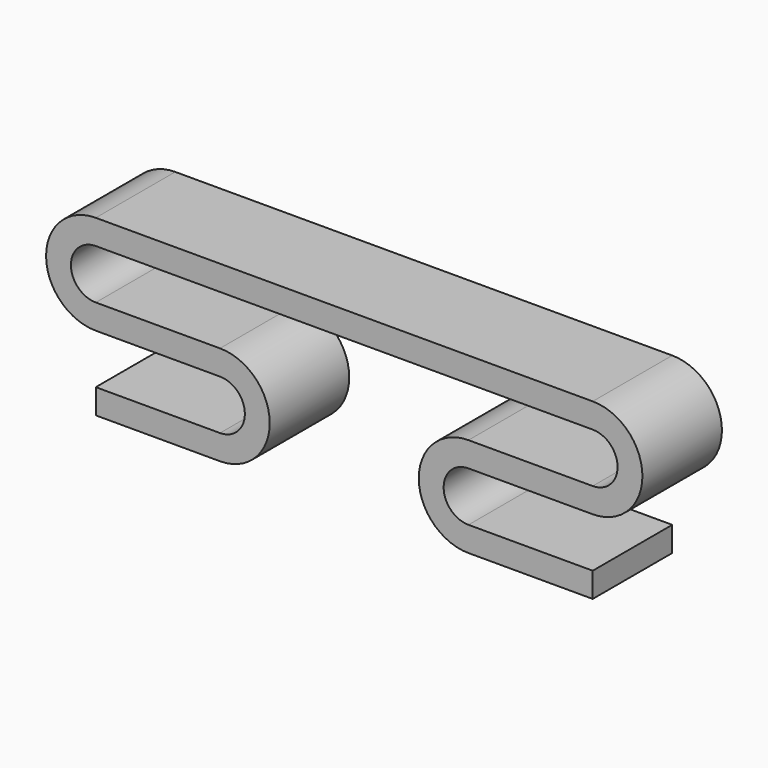
from build123d import *

# Parameters (mm, degrees)
F0_W     = 10
F0_H     = 2
F1_DEPTH = 8


with BuildPart() as f1:
    # F0 (on Front) → F1 (new body)
    with BuildSketch(Plane.XZ):
        with BuildLine():
            Line((6.535898, 8), (0, 8))
            ThreePointArc((0, 8), (2, 7.464102), (3.464102, 6))
            Line((3.464102, 6), (10, 6))
            ThreePointArc((10, 6), (8, 6.535898), (6.535898, 8))
        make_face()
        with BuildLine():
            Line((10, 8), (6.535898, 8))
            ThreePointArc((6.535898, 8), (8, 6.535898), (10, 6))
            ThreePointArc((10, 6), (14, 10), (10, 14))
            ThreePointArc((10, 14), (8, 13.464102), (6.535898, 12))
            Line((6.535898, 12), (10, 12))
            ThreePointArc((10, 12), (12, 10), (10, 8))
        make_face()
        with BuildLine():
            ThreePointArc((6.535898, 12), (8, 13.464102), (10, 14))
            Line((10, 14), (0, 14))
            Line((0, 14), (0, 12))
            Line((0, 12), (6.535898, 12))
        make_face()
        with BuildLine():
            ThreePointArc((0, 8), (-4, 4), (0, 0))
            ThreePointArc((0, 0), (2, 0.535898), (3.464102, 2))
            Line((3.464102, 2), (0, 2))
            ThreePointArc((0, 2), (-2, 4), (0, 6))
            Line((0, 6), (3.464102, 6))
            ThreePointArc((3.464102, 6), (2, 7.464102), (0, 8))
        make_face()
        with BuildLine():
            ThreePointArc((3.464102, 2), (2, 0.535898), (0, 0))
            Line((0, 0), (10, 0))
            Line((10, 0), (10, 2))
            Line((10, 2), (3.464102, 2))
        make_face()
        with Locations((-5, 13)):
            Rectangle(F0_W, F0_H)
        with Locations((-15, 13)):
            Rectangle(F0_W, F0_H)
        with BuildLine():
            Line((-20, 12), (-20, 14))
            Line((-20, 14), (-30, 14))
            ThreePointArc((-30, 14), (-28, 13.464102), (-26.535898, 12))
            Line((-26.535898, 12), (-20, 12))
        make_face()
        with BuildLine():
            ThreePointArc((-26.535898, 12), (-28, 13.464102), (-30, 14))
            ThreePointArc((-30, 14), (-34, 10), (-30, 6))
            ThreePointArc((-30, 6), (-28, 6.535898), (-26.535898, 8))
            Line((-26.535898, 8), (-30, 8))
            ThreePointArc((-30, 8), (-32, 10), (-30, 12))
            Line((-30, 12), (-26.535898, 12))
        make_face()
        with BuildLine():
            ThreePointArc((-26.535898, 8), (-28, 6.535898), (-30, 6))
            Line((-30, 6), (-23.464102, 6))
            ThreePointArc((-23.464102, 6), (-22, 7.464102), (-20, 8))
            Line((-20, 8), (-26.535898, 8))
        make_face()
        with BuildLine():
            ThreePointArc((-20, 8), (-22, 7.464102), (-23.464102, 6))
            Line((-23.464102, 6), (-20, 6))
            ThreePointArc((-20, 6), (-18, 4), (-20, 2))
            Line((-20, 2), (-23.464102, 2))
            ThreePointArc((-23.464102, 2), (-22, 0.535898), (-20, 0))
            ThreePointArc((-20, 0), (-16, 4), (-20, 8))
        make_face()
        with BuildLine():
            Line((-30, 0), (-20, 0))
            ThreePointArc((-20, 0), (-22, 0.535898), (-23.464102, 2))
            Line((-23.464102, 2), (-30, 2))
            Line((-30, 2), (-30, 0))
        make_face()
    extrude(amount=F1_DEPTH)


solid = f1.part
